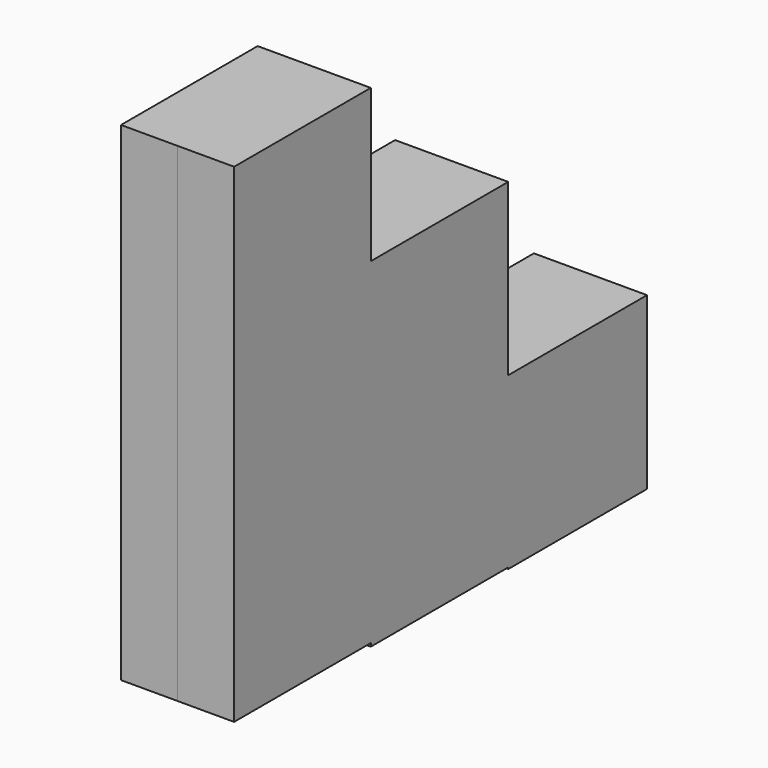
from build123d import *

# Parameters (mm, degrees)
F0_W     = 77.161081
F0_H     = 76.441064
F0_W_2   = 76.700576
F0_H_2   = 58.707238
F0_H_3   = 9.812578
F1_DEPTH = 25.4
F2_DEPTH = 25.4
F3_DEPTH = 25.4


with BuildPart() as f1:
    # F0 (on Right) → F1 (new body)
    with BuildSketch(Plane.YZ):
        with Locations((38.58054, 38.220532)):
            Rectangle(F0_W, F0_H)
        Polygon((0, -74.503794), (0, 0), (0, 76.441064), (-76.700576, 76.441064), (-76.700576, -74.503794), align=None)
        Polygon((77.161081, 0), (0, 0), (0, -74.503794), (0, -75.962201), (77.161081, -75.962201), align=None)
        Polygon((155.054316, 0), (77.161081, 0), (77.161081, -75.962201), (77.161081, -76.639667), (155.054316, -76.639667), align=None)
        with Locations((-38.350288, 105.794683)):
            Rectangle(F0_W_2, F0_H_2)
        with Locations((-38.350288, 140.054591)):
            Rectangle(F0_W_2, F0_H_3)
    extrude(amount=F1_DEPTH)

    # F1_face (on face) → F2 (join)
    with BuildSketch(Plane(origin=(25.4, 14.503292, 10.620267), x_dir=(0, 1, 0), z_dir=(1, 0, 0))):
        Polygon((62.657789, 65.820798), (-14.503292, 65.820798), (-14.503292, 134.340613), (-91.203867, 134.340613), (-91.203867, -85.124061), (-14.503292, -85.124061), (-14.503292, -86.582468), (62.657789, -86.582468), (62.657789, -87.259934), (140.551024, -87.259934), (140.551024, -10.620267), (62.657789, -10.620267), align=None)
    extrude(amount=-F2_DEPTH)

    # F1_face (on face) → F3 (join)
    with BuildSketch(Plane(origin=(25.4, 14.503292, 10.620267), x_dir=(0, 1, 0), z_dir=(1, 0, 0))):
        Polygon((62.657789, 65.820798), (-14.503292, 65.820798), (-14.503292, 134.340613), (-91.203867, 134.340613), (-91.203867, -85.124061), (-14.503292, -85.124061), (-14.503292, -86.582468), (62.657789, -86.582468), (62.657789, -87.259934), (140.551024, -87.259934), (140.551024, -10.620267), (62.657789, -10.620267), align=None)
    extrude(amount=F3_DEPTH)


solid = f1.part
